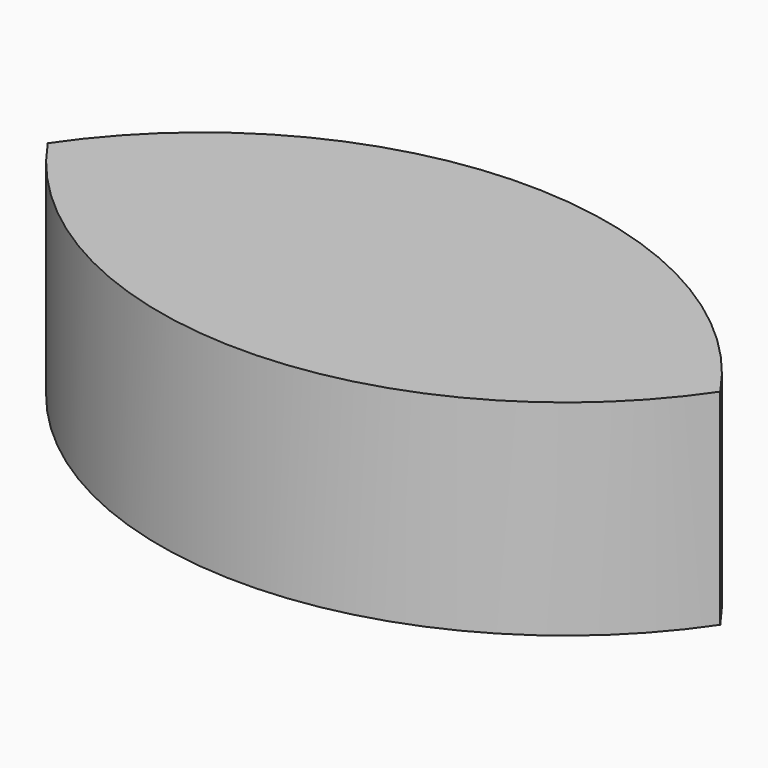
from build123d import *

# Parameters (mm, degrees)
F1_DEPTH = 18.796


with BuildPart() as f1:
    # F0 (on Top) → F1 (new body)
    with BuildSketch(Plane.XY):
        with BuildLine():
            ThreePointArc((-61.574519, 0), (-30.787259, -16.355986), (0, 0))
            ThreePointArc((0, 0), (-30.787259, 16.355986), (-61.574519, 0))
        make_face()
    extrude(amount=-F1_DEPTH)


solid = f1.part
